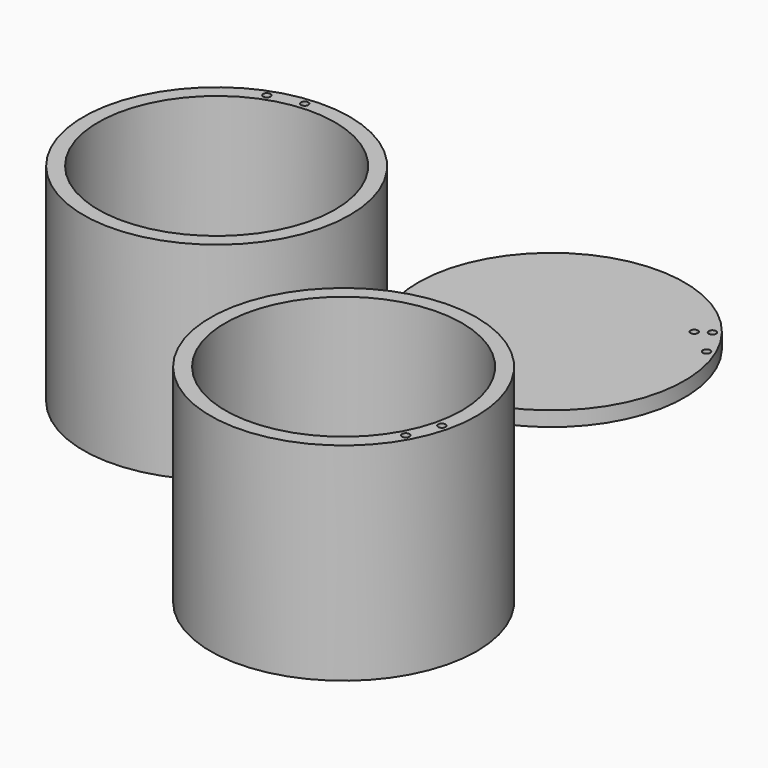
from build123d import *

# Parameters (mm, degrees)
F0_R      = 57.15
F0_R_2    = 50.8
F1_DEPTH  = 88.9
F4_D      = 3.175
F5_R      = 57.15
F6_DEPTH  = 6.35
F7_R      = 1.5875
F8_ANGLE  = 180
F9_D      = 3.175
F11_D     = 3.175
F12_R     = 57.15
F12_R_2   = 50.8
F13_DEPTH = 88.9
F14_R     = 1.5875
F15_ANGLE = 180
F16_ANGLE = 75


with BuildPart() as f1:
    # F0 (on Top) → F1 (new body)
    with BuildSketch(Plane.XY):
        with Locations((-5.3653162904, 19.8701955378)):
            Circle(F0_R)
        with Locations((-5.3653162904, 19.8701955378)):
            Circle(F0_R_2, mode=Mode.SUBTRACT)
    extrude(amount=F1_DEPTH)

    # F4 (through all)
    with Locations(Plane.XY.offset(88.9)):
        with Locations((41.9963562641, -6.0174964767)):
            Hole(F4_D / 2)

    # F9 (through all)
    with Locations(Plane.XY.offset(88.9)):
        with Locations((47.064770734, 7.0488617687)):
            Hole(F9_D / 2)


with BuildPart() as f6:
    # F5 (on Top) → F6 (new body)
    with BuildSketch(Plane.XY):
        with Locations((-201.92527771, 9.7676552832)):
            Circle(F5_R)
    extrude(amount=F6_DEPTH)

    # F7 (on face) → F8 (revolve, cut)
    with BuildSketch(Plane.XY.offset(6.35)):
        with Locations((-223.0338585963, 59.4438914326)):
            Circle(F7_R)
    revolve(axis=Axis((-218.704741723, 57.7164778697, 6.35), (-0.9438744604, -0.3303044097, 0)), revolution_arc=F8_ANGLE, mode=Mode.SUBTRACT)

    # F11 (through all)
    with Locations(Plane.XY.offset(6.35)):
        with Locations((-209.5319243335, 63.203968331)):
            Hole(F11_D / 2)


with BuildPart() as f13:
    # F12 (on Top) → F13 (new body)
    with BuildSketch(Plane.XY):
        with Locations((-129.6164393425, 107.0670858026)):
            Circle(F12_R)
        with Locations((-129.6164393425, 107.0670858026)):
            Circle(F12_R_2, mode=Mode.SUBTRACT)
    extrude(amount=F13_DEPTH)

    # F14 (on face) → F15 (revolve, cut)
    with BuildSketch(Plane.XY.offset(88.9)):
        with Locations((-134.8394257599, 160.7887856815)):
            Circle(F14_R)
    revolve(axis=Axis((-141.7698145027, 159.6560209241, 88.9), (-0.2251667468, 0.9743202431, 0)), revolution_arc=F15_ANGLE, mode=Mode.SUBTRACT)


with BuildPart() as f6_1:
    # F16: moved
    add(f6.part.rotate(Axis((-5.3653162904, 19.8701955378, 0), (0, 0, -1)), F16_ANGLE))


solid = Compound([f1.part, f13.part, f6_1.part])
